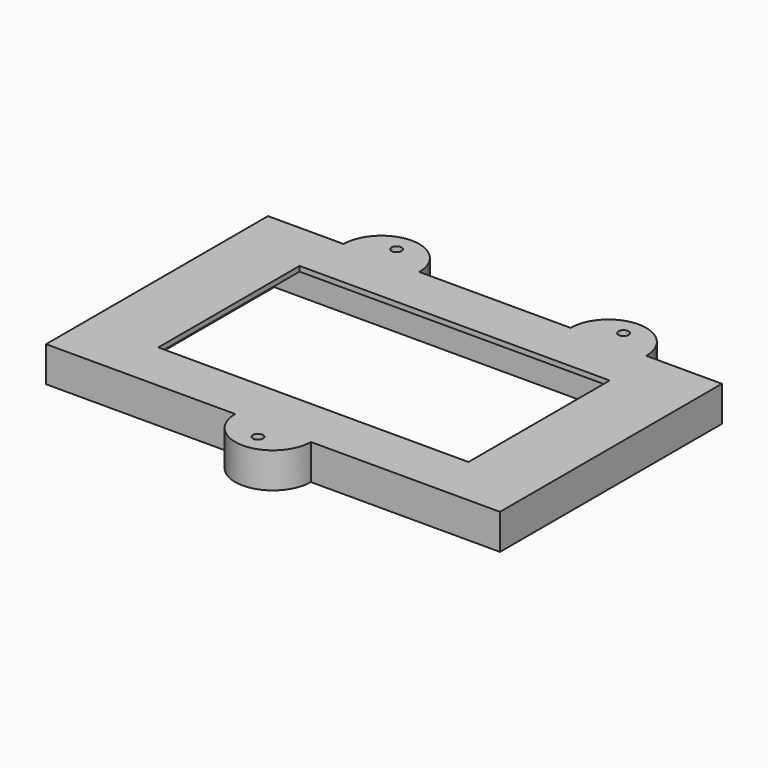
from build123d import *

# Parameters (mm, degrees)
F0_R      = 2
F1_DEPTH  = 25
F3_DEPTH  = 276
F4_R      = 2
F5_DEPTH  = 84.8
F6_R      = 2.5
F7_DEPTH  = 5
F9_DEPTH  = 14
F11_W     = 123
F11_H     = 70
F12_DEPTH = 25
F13_W     = 153
F13_H     = 80
F14_DEPTH = 12
F15_R     = 2
F16_DEPTH = 25


with BuildPart() as f1:
    # F0 (on Top) → F1 (new body)
    with BuildSketch(Plane.XY):
        with BuildLine():
            Line((-51.434658, 66.572686), (-81.434658, 66.572686))
            Line((-81.434658, 66.572686), (-81.434658, -43.427314))
            Line((-81.434658, -43.427314), (-6.434658, -43.427314))
            ThreePointArc((-6.434658, -43.427314), (8.565342, -58.427314), (23.565342, -43.427314))
            Line((23.565342, -43.427314), (98.565342, -43.427314))
            Line((98.565342, -43.427314), (98.565342, 66.572686))
            Line((98.565342, 66.572686), (68.565342, 66.572686))
            ThreePointArc((68.565342, 66.572686), (53.565342, 81.572686), (38.565342, 66.572686))
            Line((38.565342, 66.572686), (-21.434658, 66.572686))
            ThreePointArc((-21.434658, 66.572686), (-36.434658, 81.572686), (-51.434658, 66.572686))
        make_face()
        with Locations((8.565342, -50.927314)):
            Circle(F0_R, mode=Mode.SUBTRACT)
        with Locations((-36.434658, 74.072686)):
            Circle(F0_R, mode=Mode.SUBTRACT)
        with Locations((53.565342, 74.072686)):
            Circle(F0_R, mode=Mode.SUBTRACT)
    extrude(amount=F1_DEPTH)

    # F2 (on face) → F3 (cut)
    with BuildSketch(Plane.YZ.offset(98.565342)):
        with BuildLine():
            Line((43.145373, 0), (22.822686, 0))
            ThreePointArc((22.822686, 0), (11.572686, 11.25), (0.322686, 0))
            Line((0.322686, 0), (-20, 0))
            ThreePointArc((-20, 0), (-41.231841, 11.150842), (-64.902842, 15))
            Line((-64.902842, 15), (-64.902842, -16.413443))
            Line((-64.902842, -16.413443), (88.048215, -16.413443))
            Line((88.048215, -16.413443), (88.048215, 15))
            ThreePointArc((88.048215, 15), (64.377213, 11.150842), (43.145373, 0))
        make_face()
    extrude(amount=-F3_DEPTH, mode=Mode.SUBTRACT)

    # F4 (on face) → F5 (cut)
    with BuildSketch(Plane.XY.offset(25)):
        with Locations((-56.434658, 32.872686)):
            Circle(F4_R)
        with Locations((73.565342, 32.872686)):
            Circle(F4_R)
        with Locations((-56.434658, -9.727314)):
            Circle(F4_R)
        with Locations((73.565342, -9.727314)):
            Circle(F4_R)
    extrude(amount=-F5_DEPTH, mode=Mode.SUBTRACT)

    # F6 (on face) → F7 (cut)
    with BuildSketch(Plane.XY.offset(25)):
        with Locations((-56.434658, 32.872686)):
            Circle(F6_R)
        with Locations((73.565342, 32.872686)):
            Circle(F6_R)
        with Locations((73.565342, -9.727314)):
            Circle(F6_R)
        with Locations((-56.434658, -9.727314)):
            Circle(F6_R)
    extrude(amount=-F7_DEPTH, mode=Mode.SUBTRACT)


with BuildPart() as f9:
    # F8 (on face) → F9 (new body)
    with BuildSketch(Plane.XY.offset(25)):
        with BuildLine():
            Line((-81.434658, -43.427314), (-6.434658, -43.427314))
            ThreePointArc((-6.434658, -43.427314), (8.565342, -58.427314), (23.565342, -43.427314))
            Line((23.565342, -43.427314), (98.565342, -43.427314))
            Line((98.565342, -43.427314), (98.565342, 66.572686))
            Line((98.565342, 66.572686), (68.565342, 66.572686))
            ThreePointArc((68.565342, 66.572686), (53.565342, 81.572686), (38.565342, 66.572686))
            Line((38.565342, 66.572686), (-21.434658, 66.572686))
            ThreePointArc((-21.434658, 66.572686), (-36.434658, 81.572686), (-51.434658, 66.572686))
            Line((-51.434658, 66.572686), (-81.434658, 66.572686))
            Line((-81.434658, 66.572686), (-81.434658, -43.427314))
        make_face()
    extrude(amount=F9_DEPTH)

    # F11 (on face) → F12 (cut)
    with BuildSketch(Plane.XY.offset(39)):
        with Locations((8.565342, 11.572686)):
            Rectangle(F11_W, F11_H)
    extrude(amount=-F12_DEPTH, mode=Mode.SUBTRACT)

    # F13 (on face) → F14 (cut)
    with BuildSketch(Plane(origin=(0, 0, 25), x_dir=(1, 0, 0), z_dir=(0, 0, -1))):
        with Locations((9.565342, -11.572686)):
            Rectangle(F13_W, F13_H)
    extrude(amount=-F14_DEPTH, mode=Mode.SUBTRACT)

    # F15 (on face) → F16 (cut)
    with BuildSketch(Plane.XY.offset(39)):
        with Locations((53.565342, 74.072686)):
            Circle(F15_R)
        with Locations((-36.434658, 74.072686)):
            Circle(F15_R)
        with Locations((8.565342, -50.927314)):
            Circle(F15_R)
    extrude(amount=-F16_DEPTH, mode=Mode.SUBTRACT)


solid = f9.part
